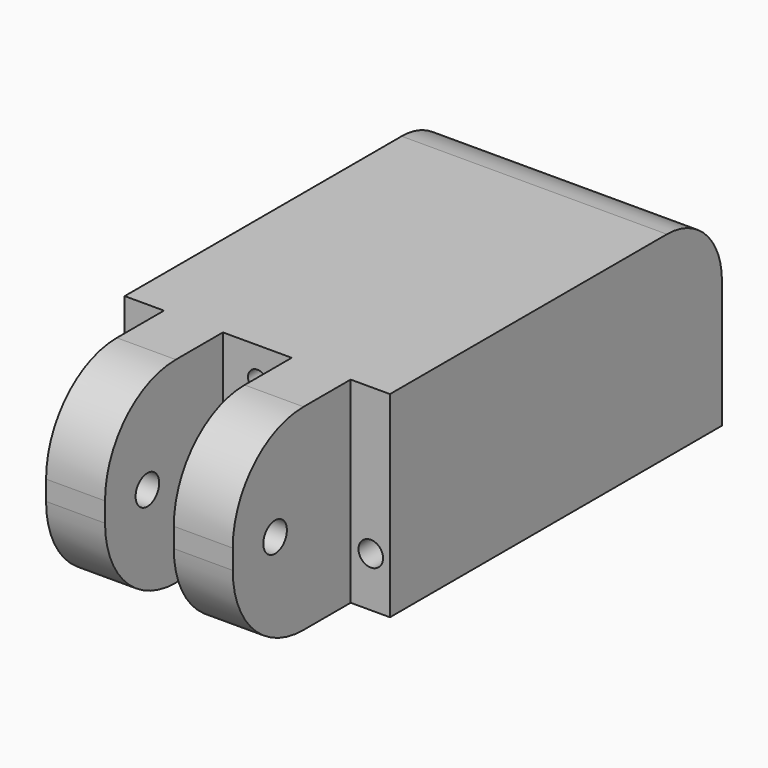
from build123d import *

# Parameters (mm, degrees)
PAD_DEPTH       = 20
FILLET_R        = 7
SKETCH001_R     = 1.5
POCKET_DEPTH    = 23.001
SKETCH002_R     = 1.25
SKETCH002_R_2   = 0.961399
POCKET001_DEPTH = 42.236626
FILLET001_R     = 9
FILLET002_R     = 9
FILLET003_R     = 9
FILLET004_R     = 9


with BuildPart() as part:
    # Sketch → Pad (new body)
    with BuildSketch(Plane.XY):
        Polygon((-31.448001, 43.877556), (-31.448001, 36.642305), (-31.448001, 1.642305), (-27.448001, 1.642283), (-27.448001, -13.357717), (-21.448001, -13.357717), (-21.448001, 1.642283), (-14.448001, 1.642283), (-14.448001, -13.357717), (-8.448001, -13.357717), (-8.448001, 1.64193), (-4.448001, 1.64193), (-4.448001, 36.64193), (-4.448001, 43.877556), align=None)
    extrude(amount=PAD_DEPTH)

    # Fillet
    fillet_edges = [part.edges().sort_by_distance(p)[0] for p in [
        (-17.948001, 43.877556, 20),
    ]]
    fillet(fillet_edges, radius=FILLET_R)

    # Sketch001 (on Face15 of Fillet) → Pocket (cut, through all)
    with BuildSketch(Plane.YZ.offset(-8.448001)):
        with Locations((-7.970362, 9.805142)):
            Circle(SKETCH001_R)
    extrude(amount=-POCKET_DEPTH, mode=Mode.SUBTRACT)

    # Sketch002 (on Face16 of Pocket) → Pocket001 (cut, through all)
    with BuildSketch(Plane.XZ.offset(-1.64193)):
        with Locations((-6.398813, 5.068225)):
            Circle(SKETCH002_R)
        with Locations((-29.421452, 5)):
            Circle(SKETCH002_R)
        with Locations((-17.935286, 16.84268)):
            Circle(SKETCH002_R_2)
    extrude(amount=-POCKET001_DEPTH, mode=Mode.SUBTRACT)

    # Fillet001
    fillet001_edges = [part.edges().sort_by_distance(p)[0] for p in [
        (-11.448001, -13.357717, 20),
    ]]
    fillet(fillet001_edges, radius=FILLET001_R)

    # Fillet002
    fillet002_edges = [part.edges().sort_by_distance(p)[0] for p in [
        (-24.448001, -13.357717, 20),
    ]]
    fillet(fillet002_edges, radius=FILLET002_R)

    # Fillet003
    fillet003_edges = [part.edges().sort_by_distance(p)[0] for p in [
        (-11.448001, -13.357717, 0),
    ]]
    fillet(fillet003_edges, radius=FILLET003_R)

    # Fillet004
    fillet004_edges = [part.edges().sort_by_distance(p)[0] for p in [
        (-24.448001, -13.357717, 0),
    ]]
    fillet(fillet004_edges, radius=FILLET004_R)


solid = part.part
